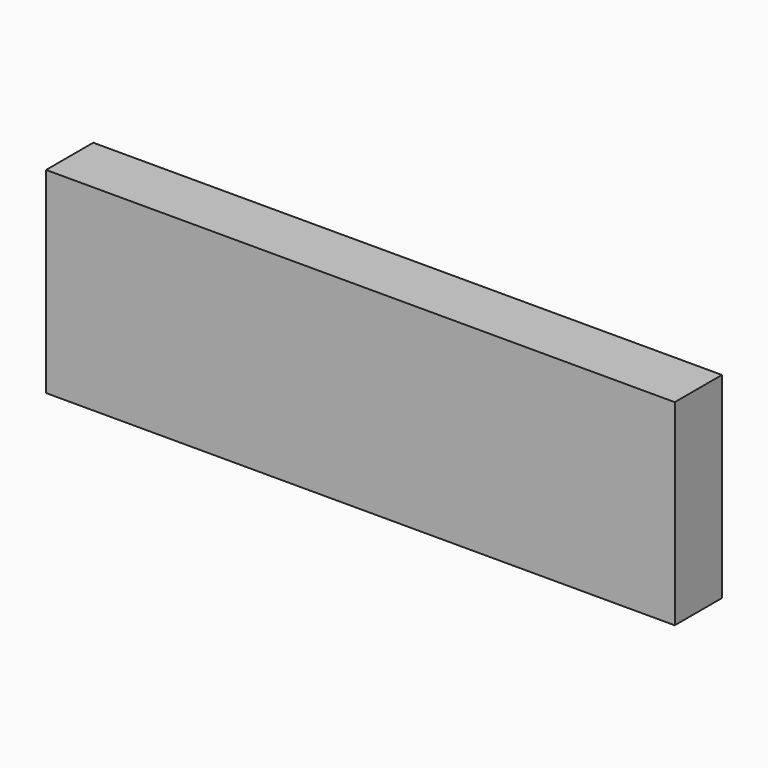
from build123d import *

# Parameters (mm, degrees)
SKETCH_W      = 160
SKETCH_H      = 15
EXTRUDE_DEPTH = 50


with BuildPart() as part:
    # Sketch → Extrude (new body)
    with BuildSketch(Plane.XY):
        Rectangle(SKETCH_W, SKETCH_H)
    extrude(amount=EXTRUDE_DEPTH)


solid = part.part
